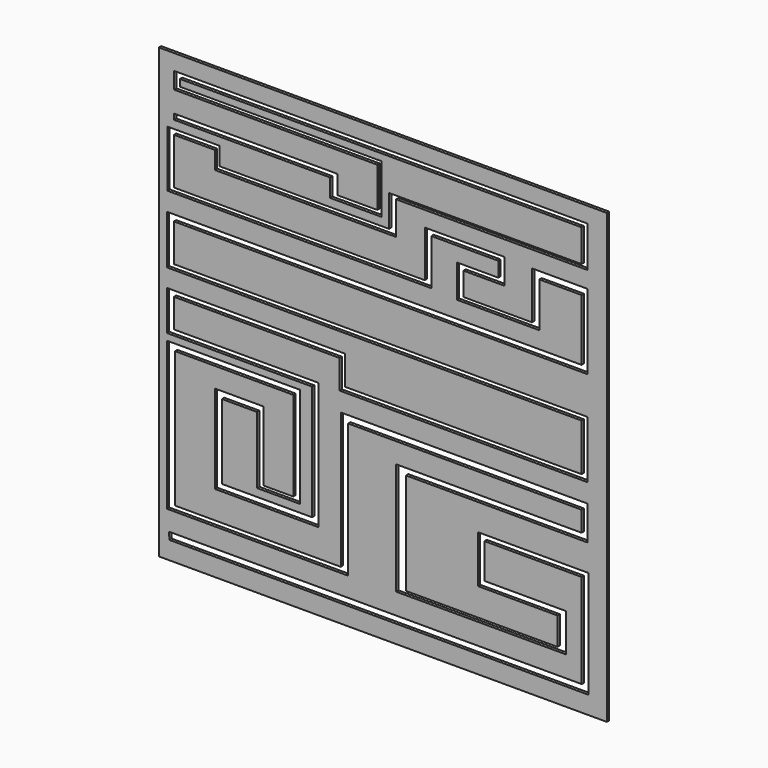
from build123d import *

# Parameters (mm, degrees)
F0_W     = 76.294
F0_H     = 76.294
F1_DEPTH = 0.5
F3_DEPTH = 0.5


with BuildPart() as f1:
    # F0 (on Front) → F1 (new body)
    with BuildSketch(Plane.XZ):
        with Locations((-38.147, 38.147)):
            Rectangle(F0_W, F0_H)
    extrude(amount=F1_DEPTH)

    # F2 (on face) → F3 (cut)
    with BuildSketch(Plane.XZ.offset(0.5)):
        Polygon((-74.574612, 4.273814), (-74.474379, 3.052396), (-3.142937, 3.052396), (-3.142937, 21.308729), (-21.963898, 21.308729), (-21.963898, 13.215715), (-8.412805, 13.215715), (-8.412805, 8.510474), (-34.19752, 8.510474), (-34.19752, 25.825759), (-3.331146, 25.825759), (-3.331146, 31.660259), (-45.301888, 31.660259), (-45.301888, 8.510474), (-73.533334, 8.510474), (-73.533334, 31.660259), (-53.394902, 31.660259), (-53.394902, 16.415277), (-58.476564, 16.415277), (-58.476564, 28.272485), (-66.757783, 28.272485), (-66.757783, 13.215715), (-49.066082, 13.215715), (-49.066082, 34.859821), (-73.721543, 34.859821), (-73.721543, 39.753273), (-45.490101, 39.753273), (-45.490101, 34.859821), (-3.331146, 34.859821), (-3.331146, 44.646721), (-73.721543, 44.646721), (-73.721543, 51.04585), (-3.331146, 51.04585), (-3.331146, 63.8441), (-12.741626, 63.8441), (-12.741626, 55.751089), (-24.410622, 55.751089), (-24.410622, 59.703492), (-17.446866, 59.703492), (-17.446866, 64.032309), (-30.997958, 64.032309), (-30.997958, 56.127511), (-73.721543, 56.127511), (-73.721543, 64.032309), (-66.757783, 64.032309), (-66.757783, 61.020955), (-35.89141, 61.020955), (-35.89141, 66.667251), (-3.331146, 66.667251), (-3.331146, 73.631003), (-73.721543, 73.631003), (-73.721543, 70.807859), (-39.090972, 70.807859), (-39.090972, 64.032309), (-45.866519, 64.032309), (-45.866519, 67.231879), (-73.721543, 67.231879), (-73.721543, 66.287316), (-47.128003, 66.287316), (-47.128003, 63.221127), (-38.352344, 63.221127), (-38.352344, 71.573861), (-72.714865, 71.573861), (-72.714865, 72.736897), (-4.307025, 72.736897), (-4.307025, 67.231879), (-37.083577, 67.231879), (-37.083577, 61.846625), (-65.948091, 61.846625), (-65.948091, 64.912818), (-74.829482, 64.912818), (-74.829482, 55.291314), (-29.893881, 55.291314), (-29.893881, 63.115396), (-18.474953, 63.115396), (-18.474953, 60.577855), (-25.558917, 60.577855), (-25.558917, 54.97412), (-11.496719, 54.97412), (-11.496719, 62.58674), (-4.307025, 62.58674), (-4.307025, 52.119389), (-74.935205, 52.119389), (-74.935205, 43.766655), (-4.307025, 43.766655), (-4.307025, 35.731114), (-44.590466, 35.731114), (-44.590466, 40.700462), (-74.935205, 40.700462), (-74.935205, 33.933688), (-50.194196, 33.933688), (-50.194196, 14.354197), (-65.555319, 14.354197), (-65.555319, 27.087314), (-59.586674, 27.087314), (-59.586674, 15.680563), (-52.291658, 15.680563), (-52.291658, 32.790691), (-74.935205, 32.790691), (-74.935205, 7.589729), (-44.068187, 7.589729), (-44.068187, 30.40323), (-4.307025, 30.40323), (-4.307025, 26.954677), (-35.89141, 26.954677), (-35.89141, 7.855003), (-6.929931, 7.855003), (-6.929931, 14.354197), (-20.856777, 14.354197), (-20.856777, 20.322846), (-4.277199, 20.322846), (-4.277199, 4.273814), align=None)
    extrude(amount=-F3_DEPTH, mode=Mode.SUBTRACT)


solid = f1.part
